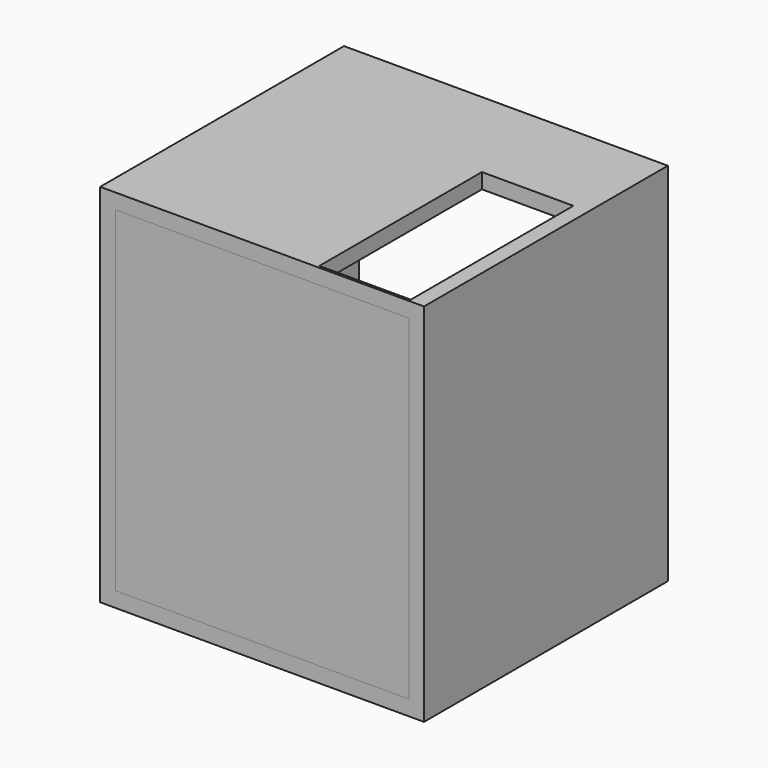
from build123d import *

# Parameters (mm, degrees)
F0_W     = 2933.7
F0_H     = 3352.8
F1_DEPTH = 25.4
F0_W_2   = 3238.5
F0_H_2   = 3657.6
F2_DEPTH = 3048
F3_W     = 914.4
F3_H     = 2032
F4_DEPTH = 152.4
F5_W     = 1384.3
F5_H     = 901.7
F6_DEPTH = 152.4


with BuildPart() as f1:
    # F0 (on Front) → F1 (new body)
    with BuildSketch(Plane.XZ):
        with Locations((-249.842785, 507.934408)):
            Rectangle(F0_W, F0_H)
    extrude(amount=-F1_DEPTH)


with BuildPart() as f2:
    # F0 (on Front) → F2 (new body)
    with BuildSketch(Plane.XZ):
        with Locations((-249.842785, 507.934408)):
            Rectangle(F0_W_2, F0_H_2)
        with Locations((-249.842785, 507.934408)):
            Rectangle(F0_W, F0_H, mode=Mode.SUBTRACT)
    extrude(amount=-F2_DEPTH)

    # F3 (on face) → F4 (cut, through all)
    with BuildSketch(Plane.XY.offset(2336.734408)):
        with Locations((759.807215, 1041.4)):
            Rectangle(F3_W, F3_H)
    extrude(amount=-F4_DEPTH, mode=Mode.SUBTRACT)

    # F5 (on face) → F6 (cut, through all)
    with BuildSketch(Plane(origin=(-1869.092785, 0, 0), x_dir=(0, -1, 0), z_dir=(-1, 0, 0))):
        with Locations((-1949.45, 1171.835959)):
            Rectangle(F5_W, F5_H)
    extrude(amount=-F6_DEPTH, mode=Mode.SUBTRACT)


solid = Compound([f1.part, f2.part])
